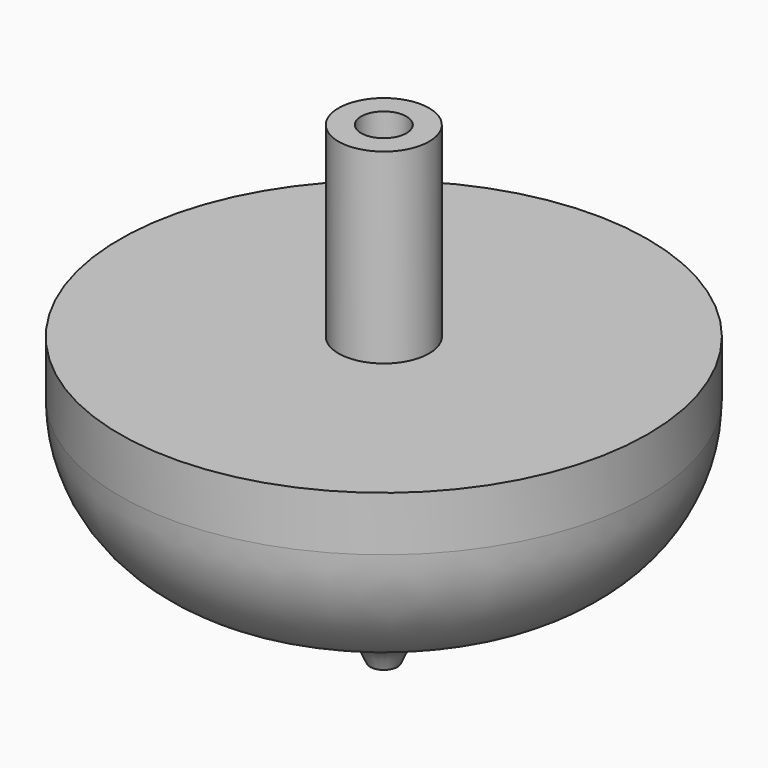
from build123d import *


with BuildPart() as f1:
    # F0 (on Front) → F1 (revolve)
    with BuildSketch(Plane.XZ):
        with BuildLine():
            ThreePointArc((20.8895848504, 17.7330967147), (27.8647612982, 23.7748747477), (30.465135211, 32.6289260119))
            Line((30.465135211, 32.6289260119), (30.465135211, 38.9237075527))
            Line((30.465135211, 38.9237075527), (5.23019908, 38.9237075527))
            Line((5.23019908, 38.9237075527), (5.23019908, 60.452))
            Line((5.23019908, 60.452), (2.61509954, 60.452))
            Line((2.61509954, 60.452), (2.61509954, 54.6547174454))
            Line((2.61509954, 54.6547174454), (0, 54.6547174454))
            Line((0, 54.6547174454), (0, 13.5723771527))
            Line((0, 13.5723771527), (1.5748, 13.5723771527))
            Line((1.5748, 13.5723771527), (1.5748, 5.8891402269))
            add(Edge.make_bspline(
                [(1.5748, 5.8891402269), (2.2689800992, 7.9924499936), (5.5516818726, 9.7161236554), (14.2092827263, 15.0823711378), (20.8895848504, 17.7330967147)],
                knots=[0, 0, 0, 0, 0.3541424232, 1, 1, 1, 1], degree=3))
        make_face()
    revolve(axis=Axis((0, 0, 34.1135472991), (0, 0, -1)))


solid = f1.part
